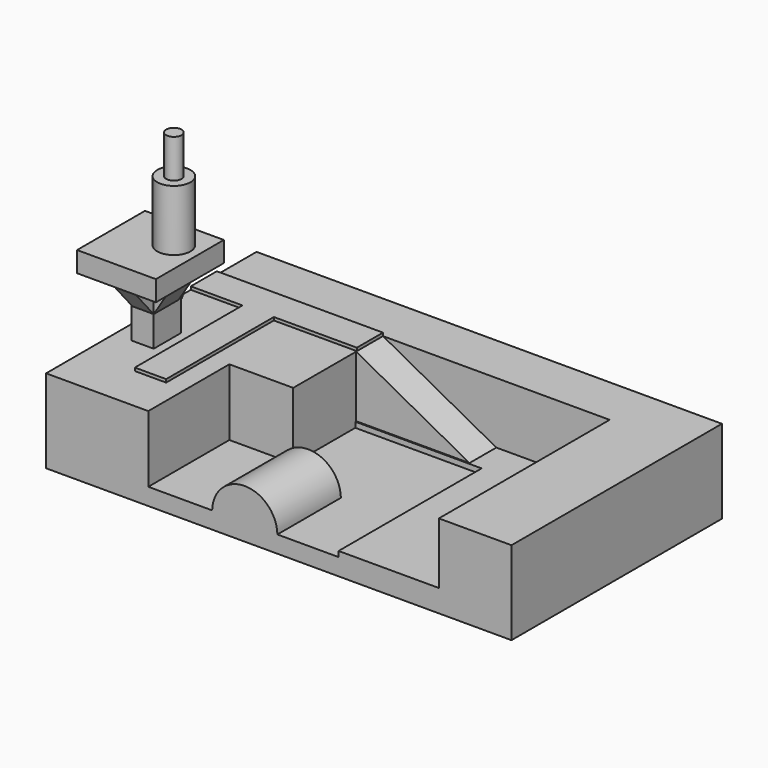
from build123d import *

# Parameters (mm, degrees)
F0_W      = 306.8140745163
F0_H      = 173.4216436744
F1_DEPTH  = 11.176
F3_DEPTH  = 52.324
F4_W      = 66.1161988974
F4_H      = 117.8840361536
F5_DEPTH  = 3.556
F7_DEPTH  = 43.942
F9_DEPTH  = 22.098
F10_W     = 20.6523872912
F10_H     = 88.7217707932
F11_DEPTH = 2.032
F12_W     = 14.7464126348
F12_H     = 22.3355772905
F13_DEPTH = 40.132
F15_DEPTH = 13.97
F17_DEPTH = 20.574
F19_DEPTH = 15.24
F21_DEPTH = 21.59
F22_W     = 51.9647672772
F22_H     = 55.9918135405
F23_DEPTH = 13.462
F24_R     = 10.9667117053
F25_DEPTH = 40.132
F26_R     = 5.0651062628
F27_DEPTH = 25.4


with BuildPart() as f1:
    # F0 (on Top) → F1 (new body)
    with BuildSketch(Plane.XY):
        with Locations((0.9204745293, 1.0380260646)):
            Rectangle(F0_W, F0_H)
    extrude(amount=F1_DEPTH)

    # F2 (on face) → F3 (join)
    with BuildSketch(Plane.XZ.offset(85.6727957726)):
        with BuildLine():
            ThreePointArc((0, 11.176), (-21.5048603714, 32.3440063265), (-43.0097207427, 11.176))
            Line((-43.0097207427, 11.176), (0, 11.176))
        make_face()
    extrude(amount=-F3_DEPTH)

    # F4 (on face) → F5 (join)
    with BuildSketch(Plane.XY.offset(11.176)):
        with Locations((73.4031423926, -26.7307776958)):
            Rectangle(F4_W, F4_H)
        Polygon((-42.968980968, 32.211240381), (40.345042944, 32.211240381), (106.4612418413, 32.211240381), (106.4612418413, 55.06047979), (-42.968980968, 55.06047979), align=None)
    extrude(amount=F5_DEPTH)

    # F6 (on face) → F7 (join)
    with BuildSketch(Plane.XY.offset(11.176)):
        Polygon((106.4612418413, 55.06047979), (106.4612418413, -85.6727957726), (154.3275117874, -85.6727957726), (154.3275117874, 87.7488479018), (-152.4865627289, 87.7488479018), (-152.4865627289, -85.6727957726), (-85.112079978, -85.6727957726), (-85.112079978, -18.8729763031), (-43.0097207427, -18.8729763031), (-42.968980968, 32.211240381), (-42.968980968, 55.06047979), align=None)
    extrude(amount=F7_DEPTH)

    # F8 (on face) → F9 (join)
    with BuildSketch(Plane.XZ.offset(-55.06047979)):
        Polygon((-42.968980968, 14.732), (31.7461304367, 14.732), (-42.968980968, 55.118), align=None)
    extrude(amount=F9_DEPTH)

    # F10 (on face) → F11 (join)
    with BuildSketch(Plane.XY.offset(55.118)):
        Polygon((-42.968980968, 33.5549861193), (-42.968980968, 55.06047979), (-152.4865627289, 55.06047979), (-152.4865627289, 33.5549861193), (-118.3801591396, 33.5549861193), (-97.7277718484, 33.5549861193), align=None)
        with Locations((-108.053965494, -10.8058992773)):
            Rectangle(F10_W, F10_H)
    extrude(amount=F11_DEPTH)

    # F12 (on face) → F13 (join)
    with BuildSketch(Plane.XY.offset(55.118)):
        with Locations((-133.7195262313, -18.4955450241)):
            Rectangle(F12_W, F12_H)
    extrude(amount=F13_DEPTH)

    # F14 (on face) → F15 (join)
    with BuildSketch(Plane.YZ.offset(-126.3463199139)):
        Polygon((-46.4369356632, 94.7568938136), (-29.6633336693, 75.184), (-29.6633336693, 95.25), align=None)
    extrude(amount=-F15_DEPTH)

    # F16 (on face) → F17 (join)
    with BuildSketch(Plane.XZ.offset(29.6633336693)):
        Polygon((-126.3463199139, 96.3086783886), (-126.3463199139, 75.184), (-113.2118999958, 96.3086783886), align=None)
    extrude(amount=-F17_DEPTH)

    # F18 (on face) → F19 (join)
    with BuildSketch(Plane(origin=(-141.0927325487, 0, 0), x_dir=(0, -1, 0), z_dir=(-1, 0, 0))):
        Polygon((7.3277563788, 75.184), (7.3277563788, 95.25), (-6.3867359422, 95.25), align=None)
    extrude(amount=-F19_DEPTH)

    # F20 (on face) → F21 (join)
    with BuildSketch(Plane(origin=(0, -7.3277563788, 0), x_dir=(-1, 0, 0), z_dir=(0, 1, 0))):
        Polygon((141.0927325487, 94.6096107364), (141.0927325487, 75.184), (156.4792990685, 94.6096107364), align=None)
    extrude(amount=-F21_DEPTH)

    # F22 (on face) → F23 (join)
    with BuildSketch(Plane.XY.offset(94.6096107364)):
        with Locations((-136.3664530218, -19.8239125311)):
            Rectangle(F22_W, F22_H)
    extrude(amount=F23_DEPTH)

    # F24 (on face) → F25 (join)
    with BuildSketch(Plane.XY.offset(108.0716107364)):
        with Locations((-126.7641037703, -12.5239156187)):
            Circle(F24_R)
    extrude(amount=F25_DEPTH)

    # F26 (on face) → F27 (join)
    with BuildSketch(Plane.XY.offset(148.2036107364)):
        with Locations((-126.7641037703, -12.5239156187)):
            Circle(F26_R)
    extrude(amount=F27_DEPTH)


solid = f1.part
